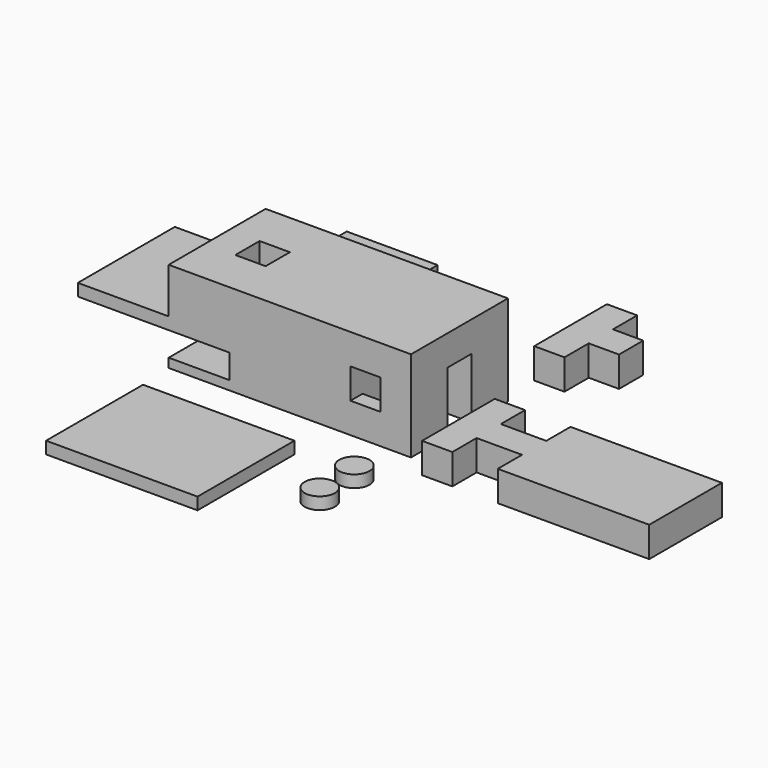
from build123d import *

# Parameters (mm, degrees)
F0_W      = 101.6
F0_H      = 50.8
F1_DEPTH  = 38.1
F2_W      = 50.8
F2_H      = 5.08
F3_DEPTH  = 38.1
F5_DEPTH  = 25.4
F6_W      = 12.7
F6_H      = 12.7
F7_DEPTH  = 254
F9_DEPTH  = 31.75
F10_W     = 50.8
F10_H     = 10.16
F11_DEPTH = 25.4
F12_W     = 38.1
F12_H     = 12.7
F13_DEPTH = 12.7
F14_W     = 63.5
F14_H     = 50.8
F15_DEPTH = 5.08
F17_DEPTH = 12.7
F19_DEPTH = 12.7
F20_R     = 6.35
F21_DEPTH = 5.08


with BuildPart() as f1:
    # F0 (on Top) → F1 (new body)
    with BuildSketch(Plane.XY):
        with Locations((-6.617251, 7.556044)):
            Rectangle(F0_W, F0_H)
    extrude(amount=F1_DEPTH)

    # F2 (on face) → F3 (join)
    with BuildSketch(Plane(origin=(-57.417251, 0, 0), x_dir=(0, -1, 0), z_dir=(-1, 0, 0))):
        with Locations((-7.556044, 16.51)):
            Rectangle(F2_W, F2_H)
    extrude(amount=F3_DEPTH)

    # F4 (on face) → F5 (cut)
    with BuildSketch(Plane(origin=(0, 0, 0), x_dir=(1, 0, 0), z_dir=(0, 0, -1))):
        Polygon((44.182749, -13.906044), (44.182749, -1.206044), (31.482749, -1.206044), (31.482749, 11.493956), (18.782749, 11.493956), (18.782749, -1.206044), (18.782749, -13.906044), (18.782749, -26.606044), (31.482749, -26.606044), (31.482749, -13.906044), align=None)
    extrude(amount=-F5_DEPTH, mode=Mode.SUBTRACT)

    # F6 (on face) → F7 (cut)
    with BuildSketch(Plane.XZ.offset(17.843956)):
        with Locations((25.132749, 19.05)):
            Rectangle(F6_W, F6_H)
    extrude(amount=-F7_DEPTH, mode=Mode.SUBTRACT)

    # F8 (on face) → F9 (cut)
    with BuildSketch(Plane.XY.offset(38.1)):
        Polygon((-44.717251, 13.906044), (-44.717251, 7.556044), (-44.717251, 1.206044), (-32.017251, 1.206044), (-32.017251, 13.906044), align=None)
    extrude(amount=-F9_DEPTH, mode=Mode.SUBTRACT)

    # F10 (on face) → F11 (cut)
    with BuildSketch(Plane(origin=(-57.417251, 0, 0), x_dir=(0, -1, 0), z_dir=(-1, 0, 0))):
        with Locations((-7.556044, 8.89)):
            Rectangle(F10_W, F10_H)
    extrude(amount=-F11_DEPTH, mode=Mode.SUBTRACT)


with BuildPart() as f13:
    # F12 (on Top) → F13 (new body)
    with BuildSketch(Plane.XY):
        with Locations((-38.089881, 68.758216)):
            Rectangle(F12_W, F12_H)
    extrude(amount=F13_DEPTH)


with BuildPart() as f15:
    # F14 (on Top) → F15 (new body)
    with BuildSketch(Plane.XY):
        with Locations((-18.732918, -65.380015)):
            Rectangle(F14_W, F14_H)
    extrude(amount=F15_DEPTH)


with BuildPart() as f17:
    # F16 (on Top) → F17 (new body)
    with BuildSketch(Plane.XY):
        Polygon((54.858658, 12.7), (54.858658, -25.4), (67.558658, -25.4), (67.558658, -12.7), (86.608658, -12.7), (86.608658, -25.4), (150.108658, -25.4), (150.108658, 12.7), (86.608658, 12.7), (86.608658, 0), (67.558658, 0), (67.558658, 12.7), align=None)
    extrude(amount=F17_DEPTH)


with BuildPart() as f19:
    # F18 (on Top) → F19 (new body)
    with BuildSketch(Plane.XY):
        Polygon((54.28679, 88.065836), (41.58679, 88.065836), (41.58679, 49.965836), (54.28679, 49.965836), (54.28679, 62.665836), (66.98679, 62.665836), (66.98679, 75.365836), (54.28679, 75.365836), align=None)
    extrude(amount=F19_DEPTH)


with BuildPart() as f21:
    # F20 (on Top) → F21 (new body)
    with BuildSketch(Plane.XY):
        with Locations((39.313983, -41.457411)):
            Circle(F20_R)
        with Locations((40.19957, -60.687345)):
            Circle(F20_R)
    extrude(amount=F21_DEPTH)


solid = Compound([f1.part, f13.part, f15.part, f17.part, f19.part, f21.part])
